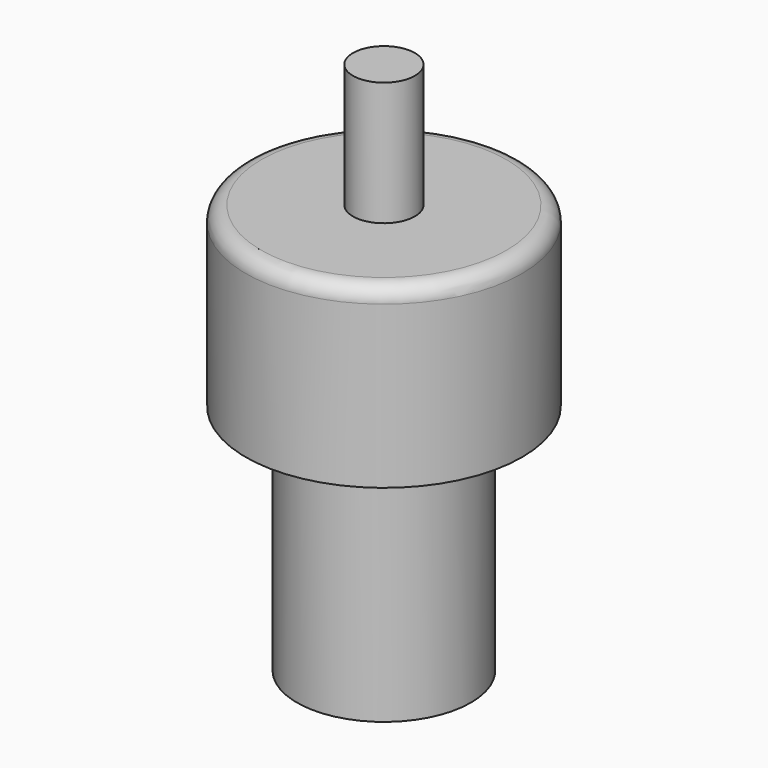
from build123d import *

# Parameters (mm, degrees)
F0_R      = 3.175
F1_DEPTH  = 15.875
F0_R_2    = 14.175
F0_R_3    = 11
F0_R_4    = 4
F2_DEPTH  = 3.175
F3_DEPTH  = 15
F4_R      = 1.5875
F5_R      = 4
F6_DEPTH  = 15.875
F7_R      = 8.925
F7_R_2    = 5.75
F8_DEPTH  = 23
F7_R_3    = 4
F9_DEPTH  = 3
F11_D     = 2.5
F11_DEPTH = 10
F11_TIP   = 0.7510757738


with BuildPart() as f1:
    # F0 (on Top) → F1 (new body)
    with BuildSketch(Plane.XY):
        Circle(F0_R)
    extrude(amount=F1_DEPTH)

    # F0 (on Top) → F2 (join)
    with BuildSketch(Plane.XY):
        Circle(F0_R_2)
        Circle(F0_R_3, mode=Mode.SUBTRACT)
        Circle(F0_R_3)
        Circle(F0_R_4, mode=Mode.SUBTRACT)
        Circle(F0_R_4)
        Circle(F0_R, mode=Mode.SUBTRACT)
    extrude(amount=F2_DEPTH)

    # F0 (on Top) → F3 (join)
    with BuildSketch(Plane.XY):
        Circle(F0_R_2)
        Circle(F0_R_3, mode=Mode.SUBTRACT)
    extrude(amount=-F3_DEPTH)

    # F4
    f4_edges = [f1.edges().sort_by_distance(p)[0] for p in [
        (-14.175, 0, 3.175),
    ]]
    fillet(f4_edges, radius=F4_R)


with BuildPart() as f6:
    # F5 (on face) → F6 (new body)
    with BuildSketch(Plane.XY):
        Circle(F5_R)
    extrude(amount=-F6_DEPTH)



with BuildPart() as f8:
    # F7 (on face) → F8 (new body)
    with BuildSketch(Plane(origin=(0, 0, -15.875), x_dir=(1, 0, 0), z_dir=(0, 0, -1))):
        Circle(F7_R)
        Circle(F7_R_2, mode=Mode.SUBTRACT)
    extrude(amount=F8_DEPTH)


with BuildPart() as f6_1:
    add(f6.part)

    add(f8.part)  # F9 merges F8
    # F7 (on face) → F9 (join)
    with BuildSketch(Plane(origin=(0, 0, -15.875), x_dir=(1, 0, 0), z_dir=(0, 0, -1))):
        Circle(F7_R_2)
        Circle(F7_R_3, mode=Mode.SUBTRACT)
        Circle(F7_R_3)
    extrude(amount=F9_DEPTH)

    # F11
    with Locations(Plane(origin=(0, 0, -18.875), x_dir=(1, 0, 0), z_dir=(0, 0, -1))):
        with Locations((0, 0)):
            Hole(F11_D / 2, depth=F11_DEPTH)
            with Locations((0, 0, -(F11_DEPTH + F11_TIP / 2))):  # 118° drill point
                Cone(0, F11_D / 2, F11_TIP, mode=Mode.SUBTRACT)


solid = Compound([f1.part, f6_1.part])
